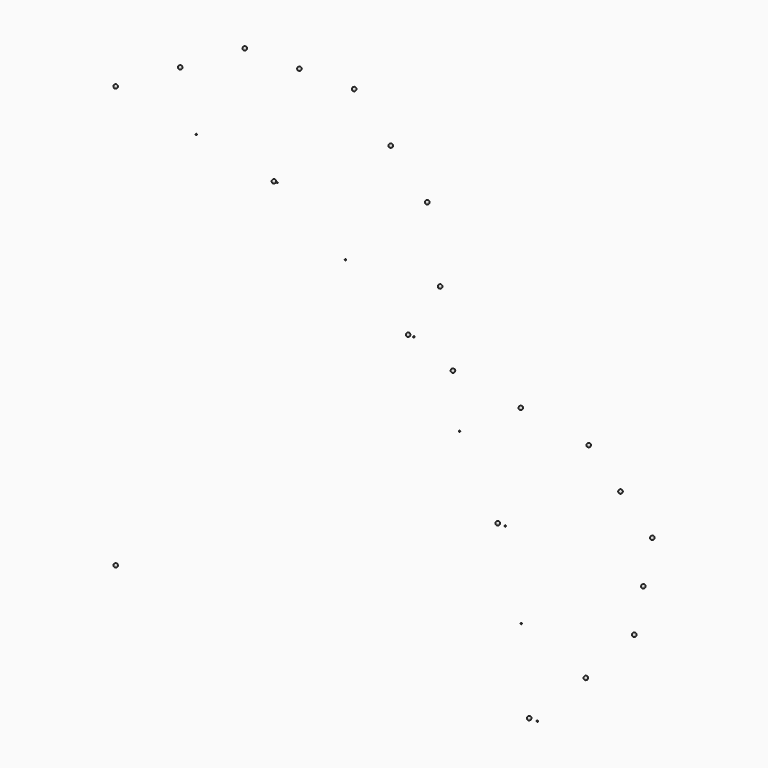
from build123d import *


with BuildPart() as sphere:
    # Sphere → Sphere (revolve)
    with BuildSketch(Plane(origin=(3500, 0, 0), x_dir=(1, 0, 0), z_dir=(0, -1, 0))):
        with BuildLine():
            ThreePointArc((0, -5), (5, 0), (0, 5))
            Line((0, 5), (0, -5))
        make_face()
    revolve(axis=Axis((3500, 0, 0), (0, 0, 1)))


with BuildPart() as sphere001:
    # Sphere001 → Sphere001 (revolve)
    with BuildSketch(Plane.XZ):
        with BuildLine():
            ThreePointArc((0, -15), (15, 0), (0, 15))
            Line((0, 15), (0, -15))
        make_face()
    revolve(axis=Axis((0, 0, 0), (0, 0, 1)))


with BuildPart() as sphere002:
    # Sphere002 → Sphere002 (revolve)
    with BuildSketch(Plane(origin=(0, 0, 3500), x_dir=(1, 0, 0), z_dir=(0, -1, 0))):
        with BuildLine():
            ThreePointArc((0, -15), (15, 0), (0, 15))
            Line((0, 15), (0, -15))
        make_face()
    revolve(axis=Axis((0, 0, 3500), (0, 0, 1)))


with BuildPart() as sphere003:
    # Sphere003 → Sphere003 (revolve)
    with BuildSketch(Plane(origin=(1339.392013, 0, 3233.578364), x_dir=(1, 0, 0), z_dir=(0, -1, 0))):
        with BuildLine():
            ThreePointArc((0, -5), (5, 0), (0, 5))
            Line((0, 5), (0, -5))
        make_face()
    revolve(axis=Axis((1339.392013, 0, 3233.578364), (0, 0, 1)))


with BuildPart() as sphere004:
    # Sphere004 → Sphere004 (revolve)
    with BuildSketch(Plane(origin=(2474.873734, 0, 2474.873734), x_dir=(1, 0, 0), z_dir=(0, -1, 0))):
        with BuildLine():
            ThreePointArc((0, -5), (5, 0), (0, 5))
            Line((0, 5), (0, -5))
        make_face()
    revolve(axis=Axis((2474.873734, 0, 2474.873734), (0, 0, 1)))


with BuildPart() as sphere005:
    # Sphere005 → Sphere005 (revolve)
    with BuildSketch(Plane(origin=(3233.578364, 0, 1339.392013), x_dir=(1, 0, 0), z_dir=(0, -1, 0))):
        with BuildLine():
            ThreePointArc((0, -5), (5, 0), (0, 5))
            Line((0, 5), (0, -5))
        make_face()
    revolve(axis=Axis((3233.578364, 0, 1339.392013), (0, 0, 1)))


with BuildPart() as sphere006:
    # Sphere006 → Sphere006 (revolve)
    with BuildSketch(Plane.XZ.offset(-3500)):
        with BuildLine():
            ThreePointArc((0, -15), (15, 0), (0, 15))
            Line((0, 15), (0, -15))
        make_face()
    revolve(axis=Axis((0, 3500, 0), (0, 0, 1)))


with BuildPart() as sphere007:
    # Sphere007 → Sphere007 (revolve)
    with BuildSketch(Plane(origin=(0, 3233.578364, 1339.392013), x_dir=(1, 0, 0), z_dir=(0, -1, 0))):
        with BuildLine():
            ThreePointArc((0, -15), (15, 0), (0, 15))
            Line((0, 15), (0, -15))
        make_face()
    revolve(axis=Axis((0, 3233.578364, 1339.392013), (0, 0, 1)))


with BuildPart() as sphere008:
    # Sphere008 → Sphere008 (revolve)
    with BuildSketch(Plane(origin=(0, 2474.873734, 2474.873734), x_dir=(1, 0, 0), z_dir=(0, -1, 0))):
        with BuildLine():
            ThreePointArc((0, -15), (15, 0), (0, 15))
            Line((0, 15), (0, -15))
        make_face()
    revolve(axis=Axis((0, 2474.873734, 2474.873734), (0, 0, 1)))


with BuildPart() as sphere009:
    # Sphere009 → Sphere009 (revolve)
    with BuildSketch(Plane(origin=(0, 1339.392013, 3233.578364), x_dir=(1, 0, 0), z_dir=(0, -1, 0))):
        with BuildLine():
            ThreePointArc((0, -15), (15, 0), (0, 15))
            Line((0, 15), (0, -15))
        make_face()
    revolve(axis=Axis((0, 1339.392013, 3233.578364), (0, 0, 1)))


with BuildPart() as sphere010:
    # Sphere010 → Sphere010 (revolve)
    with BuildSketch(Plane(origin=(1339.392013, 3233.578364, 0), x_dir=(1, 0, 0), z_dir=(0, -1, 0))):
        with BuildLine():
            ThreePointArc((0, -15), (15, 0), (0, 15))
            Line((0, 15), (0, -15))
        make_face()
    revolve(axis=Axis((1339.392013, 3233.578364, 0), (0, 0, 1)))


with BuildPart() as sphere011:
    # Sphere011 → Sphere011 (revolve)
    with BuildSketch(Plane(origin=(2474.873734, 2474.873734, 0), x_dir=(1, 0, 0), z_dir=(0, -1, 0))):
        with BuildLine():
            ThreePointArc((0, -15), (15, 0), (0, 15))
            Line((0, 15), (0, -15))
        make_face()
    revolve(axis=Axis((2474.873734, 2474.873734, 0), (0, 0, 1)))


with BuildPart() as sphere012:
    # Sphere012 → Sphere012 (revolve)
    with BuildSketch(Plane(origin=(3233.578364, 1339.392013, 0), x_dir=(1, 0, 0), z_dir=(0, -1, 0))):
        with BuildLine():
            ThreePointArc((0, -15), (15, 0), (0, 15))
            Line((0, 15), (0, -15))
        make_face()
    revolve(axis=Axis((3233.578364, 1339.392013, 0), (0, 0, 1)))


with BuildPart() as sphere013:
    # Sphere013 → Sphere013 (revolve)
    with BuildSketch(Plane(origin=(3366.789182, 669.696007, 0), x_dir=(1, 0, 0), z_dir=(0, -1, 0))):
        with BuildLine():
            ThreePointArc((0, -15), (15, 0), (0, 15))
            Line((0, 15), (0, -15))
        make_face()
    revolve(axis=Axis((3366.789182, 669.696007, 0), (0, 0, 1)))


with BuildPart() as sphere014:
    # Sphere014 → Sphere014 (revolve)
    with BuildSketch(Plane(origin=(2854.226049, 1907.132874, 0), x_dir=(1, 0, 0), z_dir=(0, -1, 0))):
        with BuildLine():
            ThreePointArc((0, -15), (15, 0), (0, 15))
            Line((0, 15), (0, -15))
        make_face()
    revolve(axis=Axis((2854.226049, 1907.132874, 0), (0, 0, 1)))


with BuildPart() as sphere015:
    # Sphere015 → Sphere015 (revolve)
    with BuildSketch(Plane(origin=(1907.132874, 2854.226049, 0), x_dir=(1, 0, 0), z_dir=(0, -1, 0))):
        with BuildLine():
            ThreePointArc((0, -15), (15, 0), (0, 15))
            Line((0, 15), (0, -15))
        make_face()
    revolve(axis=Axis((1907.132874, 2854.226049, 0), (0, 0, 1)))


with BuildPart() as sphere016:
    # Sphere016 → Sphere016 (revolve)
    with BuildSketch(Plane(origin=(669.696007, 3366.789182, 0), x_dir=(1, 0, 0), z_dir=(0, -1, 0))):
        with BuildLine():
            ThreePointArc((0, -15), (15, 0), (0, 15))
            Line((0, 15), (0, -15))
        make_face()
    revolve(axis=Axis((669.696007, 3366.789182, 0), (0, 0, 1)))


with BuildPart() as sphere017:
    # Sphere017 → Sphere017 (revolve)
    with BuildSketch(Plane(origin=(0, 3366.789182, 669.696007), x_dir=(1, 0, 0), z_dir=(0, -1, 0))):
        with BuildLine():
            ThreePointArc((0, -15), (15, 0), (0, 15))
            Line((0, 15), (0, -15))
        make_face()
    revolve(axis=Axis((0, 3366.789182, 669.696007), (0, 0, 1)))


with BuildPart() as sphere018:
    # Sphere018 → Sphere018 (revolve)
    with BuildSketch(Plane(origin=(0, 2854.226049, 1907.132874), x_dir=(1, 0, 0), z_dir=(0, -1, 0))):
        with BuildLine():
            ThreePointArc((0, -15), (15, 0), (0, 15))
            Line((0, 15), (0, -15))
        make_face()
    revolve(axis=Axis((0, 2854.226049, 1907.132874), (0, 0, 1)))


with BuildPart() as sphere019:
    # Sphere019 → Sphere019 (revolve)
    with BuildSketch(Plane(origin=(0, 1907.132874, 2854.226049), x_dir=(1, 0, 0), z_dir=(0, -1, 0))):
        with BuildLine():
            ThreePointArc((0, -15), (15, 0), (0, 15))
            Line((0, 15), (0, -15))
        make_face()
    revolve(axis=Axis((0, 1907.132874, 2854.226049), (0, 0, 1)))


with BuildPart() as sphere020:
    # Sphere020 → Sphere020 (revolve)
    with BuildSketch(Plane(origin=(0, 669.696007, 3366.789182), x_dir=(1, 0, 0), z_dir=(0, -1, 0))):
        with BuildLine():
            ThreePointArc((0, -15), (15, 0), (0, 15))
            Line((0, 15), (0, -15))
        make_face()
    revolve(axis=Axis((0, 669.696007, 3366.789182), (0, 0, 1)))


with BuildPart() as sphere021:
    # Sphere021 → Sphere021 (revolve)
    with BuildSketch(Plane(origin=(669.696007, 0, 3366.789182), x_dir=(1, 0, 0), z_dir=(0, -1, 0))):
        with BuildLine():
            ThreePointArc((0, -5), (5, 0), (0, 5))
            Line((0, 5), (0, -5))
        make_face()
    revolve(axis=Axis((669.696007, 0, 3366.789182), (0, 0, 1)))


with BuildPart() as sphere022:
    # Sphere022 → Sphere022 (revolve)
    with BuildSketch(Plane(origin=(1907.132874, 0, 2854.226049), x_dir=(1, 0, 0), z_dir=(0, -1, 0))):
        with BuildLine():
            ThreePointArc((0, -5), (5, 0), (0, 5))
            Line((0, 5), (0, -5))
        make_face()
    revolve(axis=Axis((1907.132874, 0, 2854.226049), (0, 0, 1)))


with BuildPart() as sphere023:
    # Sphere023 → Sphere023 (revolve)
    with BuildSketch(Plane(origin=(2854.226049, 0, 1907.132874), x_dir=(1, 0, 0), z_dir=(0, -1, 0))):
        with BuildLine():
            ThreePointArc((0, -5), (5, 0), (0, 5))
            Line((0, 5), (0, -5))
        make_face()
    revolve(axis=Axis((2854.226049, 0, 1907.132874), (0, 0, 1)))


with BuildPart() as sphere024:
    # Sphere024 → Sphere024 (revolve)
    with BuildSketch(Plane(origin=(3366.789182, 0, 669.696007), x_dir=(1, 0, 0), z_dir=(0, -1, 0))):
        with BuildLine():
            ThreePointArc((0, -5), (5, 0), (0, 5))
            Line((0, 5), (0, -5))
        make_face()
    revolve(axis=Axis((3366.789182, 0, 669.696007), (0, 0, 1)))


with BuildPart() as sphere025:
    # Sphere025 → Sphere025 (revolve)
    with BuildSketch(Plane(origin=(1313.655971, 0, 3233.578364), x_dir=(1, 0, 0), z_dir=(0, -1, 0))):
        with BuildLine():
            ThreePointArc((0, -15), (15, 0), (0, 15))
            Line((0, 15), (0, -15))
        make_face()
    revolve(axis=Axis((1313.655971, 0, 3233.578364), (0, 0, 1)))


with BuildPart() as sphere026:
    # Sphere026 → Sphere026 (revolve)
    with BuildSketch(Plane(origin=(2427.319729, 0, 2474.873734), x_dir=(1, 0, 0), z_dir=(0, -1, 0))):
        with BuildLine():
            ThreePointArc((0, -15), (15, 0), (0, 15))
            Line((0, 15), (0, -15))
        make_face()
    revolve(axis=Axis((2427.319729, 0, 2474.873734), (0, 0, 1)))


with BuildPart() as sphere027:
    # Sphere027 → Sphere027 (revolve)
    with BuildSketch(Plane(origin=(3171.446062, 0, 1339.392013), x_dir=(1, 0, 0), z_dir=(0, -1, 0))):
        with BuildLine():
            ThreePointArc((0, -15), (15, 0), (0, 15))
            Line((0, 15), (0, -15))
        make_face()
    revolve(axis=Axis((3171.446062, 0, 1339.392013), (0, 0, 1)))


with BuildPart() as sphere028:
    # Sphere028 → Sphere028 (revolve)
    with BuildSketch(Plane(origin=(3432.748481, 0, 0), x_dir=(1, 0, 0), z_dir=(0, -1, 0))):
        with BuildLine():
            ThreePointArc((0, -15), (15, 0), (0, 15))
            Line((0, 15), (0, -15))
        make_face()
    revolve(axis=Axis((3432.748481, 0, 0), (0, 0, 1)))


solid = Compound([sphere.part, sphere001.part, sphere002.part, sphere003.part, sphere004.part, sphere005.part, sphere006.part, sphere007.part, sphere008.part, sphere009.part, sphere010.part, sphere011.part, sphere012.part, sphere013.part, sphere014.part, sphere015.part, sphere016.part, sphere017.part, sphere018.part, sphere019.part, sphere020.part, sphere021.part, sphere022.part, sphere023.part, sphere024.part, sphere025.part, sphere026.part, sphere027.part, sphere028.part])
